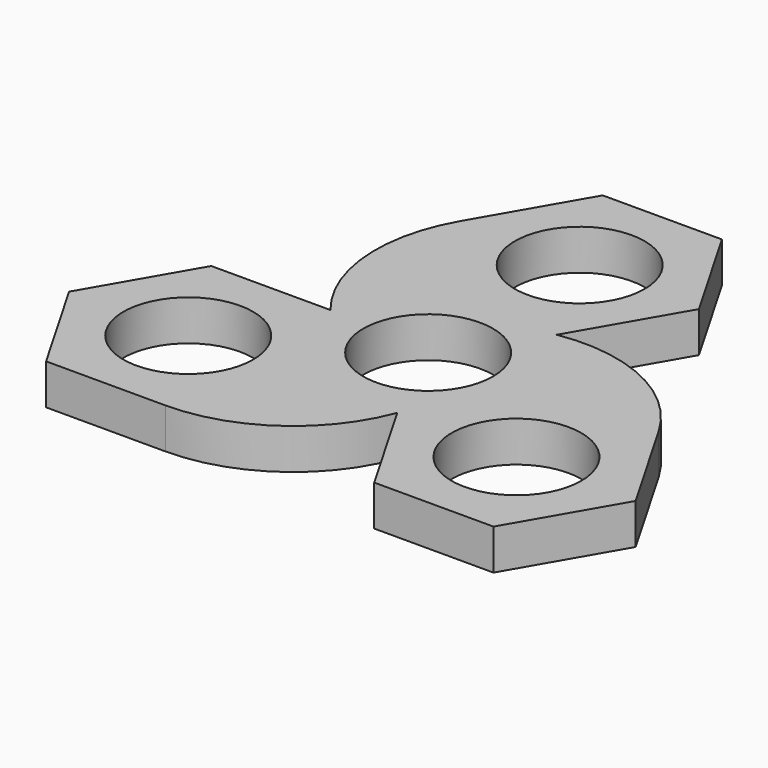
from build123d import *

# Parameters (mm, degrees)
F0_R     = 11.2
F1_DEPTH = 7


with BuildPart() as f1:
    # F0 (on Top) → F1 (new body)
    with BuildSketch(Plane.XY):
        with BuildLine():
            Line((7.750421, -16.361898), (11.378001, -10.078745))
            ThreePointArc((11.378001, -10.078745), (13.163586, -7.6), (14.417449, -4.814265))
            Line((14.417449, -4.814265), (18.04503, 1.468888))
            Line((18.04503, 1.468888), (38.634247, 1.468888))
            ThreePointArc((38.634247, 1.468888), (26.558452, 12.60164), (10.294609, 14.89301))
            Line((10.294609, 14.89301), (3.039449, 14.89301))
            Line((3.039449, 14.89301), (-3.039449, 14.89301))
            Line((-3.039449, 14.89301), (-10.294609, 14.89301))
            Line((-10.294609, 14.89301), (-20.589218, 32.723796))
            ThreePointArc((-20.589218, 32.723796), (-24.192566, 16.699475), (-18.04503, 1.468888))
            Line((-18.04503, 1.468888), (-7.750421, -16.361898))
            Line((-7.750421, -16.361898), (-18.04503, -34.192683))
            ThreePointArc((-18.04503, -34.192683), (-2.365886, -29.301114), (7.750421, -16.361898))
        make_face()
        Circle(F0_R, mode=Mode.SUBTRACT)
        Polygon((-38.634247, -34.192683), (-18.04503, -34.192683), (-7.750421, -16.361898), (-18.04503, 1.468888), (-38.634247, 1.468888), (-48.928856, -16.361898), align=None)
        with Locations((-28.339638, -16.361898)):
            Circle(F0_R, mode=Mode.SUBTRACT)
        with BuildLine():
            ThreePointArc((14.417449, -4.814265), (13.163586, -7.6), (11.378001, -10.078745))
            Line((11.378001, -10.078745), (7.750421, -16.361898))
            Line((7.750421, -16.361898), (18.04503, -34.192683))
            Line((18.04503, -34.192683), (38.634247, -34.192683))
            Line((38.634247, -34.192683), (48.928856, -16.361898))
            Line((48.928856, -16.361898), (38.634247, 1.468888))
            Line((38.634247, 1.468888), (18.04503, 1.468888))
            Line((18.04503, 1.468888), (14.417449, -4.814265))
        make_face()
        with Locations((28.339638, -16.361898)):
            Circle(F0_R, mode=Mode.SUBTRACT)
        Polygon((3.039449, 14.89301), (10.294609, 14.89301), (20.589218, 32.723796), (10.294609, 50.554581), (-10.294609, 50.554581), (-20.589218, 32.723796), (-10.294609, 14.89301), (-3.039449, 14.89301), align=None)
        with Locations((0, 32.723796)):
            Circle(F0_R, mode=Mode.SUBTRACT)
    extrude(amount=F1_DEPTH)


solid = f1.part
